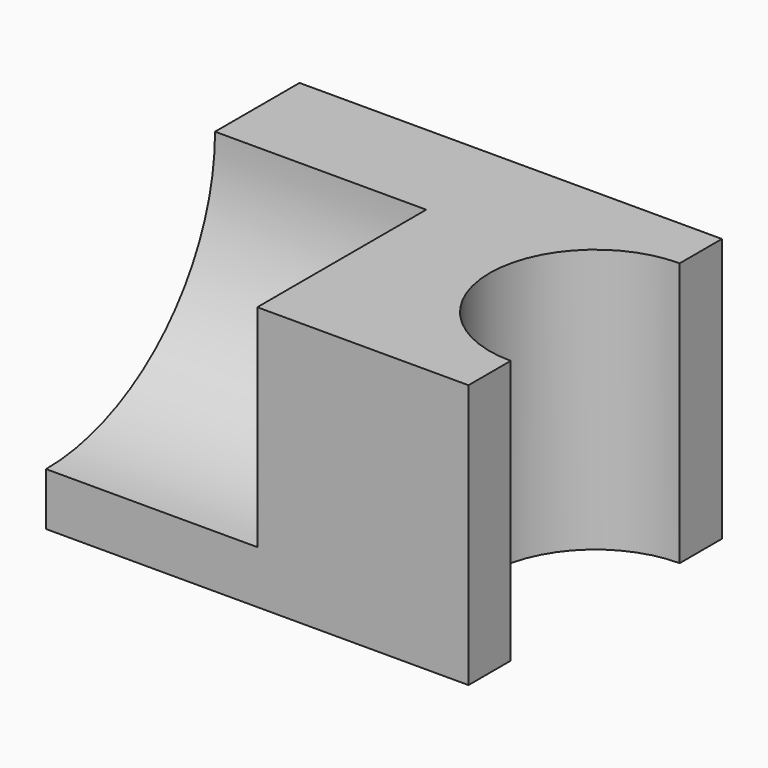
from build123d import *

# Parameters (mm, degrees)
F0_W     = 101.6
F0_H     = 63.5
F1_DEPTH = 76.2
F3_DEPTH = 63.5
F5_DEPTH = 50.8


with BuildPart() as f1:
    # F0 (on Front) → F1 (new body)
    with BuildSketch(Plane.XZ):
        with Locations((-3.26282, -0.310746)):
            Rectangle(F0_W, F0_H)
    extrude(amount=F1_DEPTH)

    # F2 (on face) → F3 (cut)
    with BuildSketch(Plane.XY.offset(31.439254)):
        with BuildLine():
            Line((47.53718, -63.5), (47.53718, -12.7))
            ThreePointArc((47.53718, -12.7), (22.13718, -38.1), (47.53718, -63.5))
        make_face()
    extrude(amount=-F3_DEPTH, mode=Mode.SUBTRACT)

    # F4 (on face) → F5 (cut)
    with BuildSketch(Plane(origin=(-54.06282, 0, 0), x_dir=(0, -1, 0), z_dir=(-1, 0, 0))):
        with BuildLine():
            Line((76.2, 31.439254), (25.4, 31.439254))
            ThreePointArc((25.4, 31.439254), (40.278976, -4.481771), (76.2, -19.360746))
            Line((76.2, -19.360746), (76.2, 31.439254))
        make_face()
    extrude(amount=-F5_DEPTH, mode=Mode.SUBTRACT)


solid = f1.part
